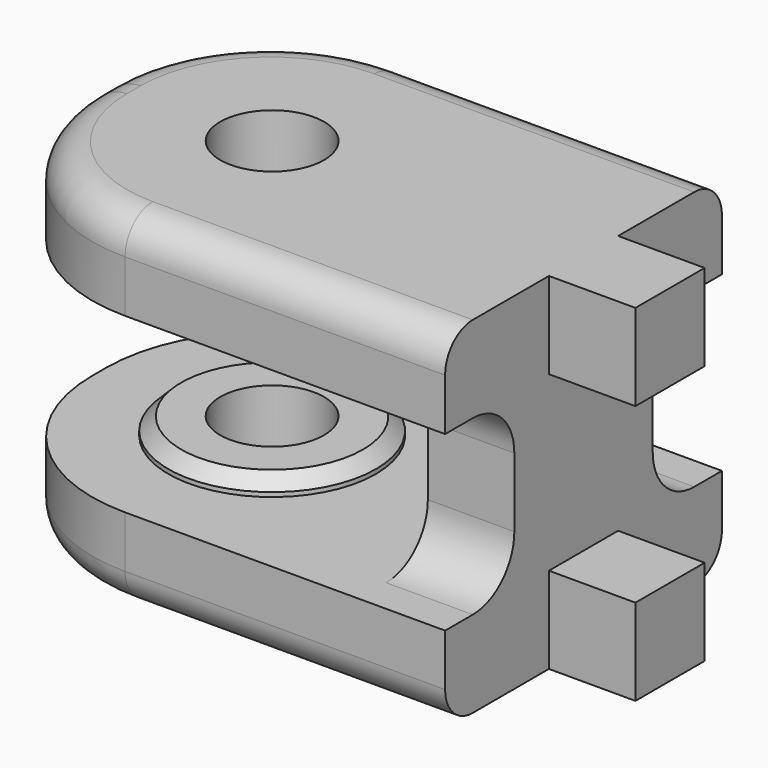
from build123d import *

# Parameters (mm, degrees)
BOX007_W          = 11
BOX007_H          = 7
BOX007_DEPTH      = 10
FILLET_R          = 3
ARRAY_COUNT       = 2
ARRAY_ANGLE       = 180
CYLINDER004_R     = 3
CYLINDER004_DEPTH = 30
CYLINDER005_R     = 6
CYLINDER005_DEPTH = 4
BOX005_W          = 23
BOX005_H          = 20
BOX005_DEPTH      = 5
BOX003_W          = 10
BOX003_H          = 5
BOX003_DEPTH      = 5
BOX004_W          = 10
BOX004_H          = 5
BOX004_DEPTH      = 5
BOX_W             = 5
BOX_H             = 20
BOX_DEPTH         = 20
BOX006_W          = 23
BOX006_H          = 20
BOX006_DEPTH      = 5
CYLINDER006_R     = 6
CYLINDER006_DEPTH = 4
CHAMFER_SIZE      = 0.75
CHAMFER001_SIZE   = 0.75
FILLET001_R       = 9.5
FILLET002_R       = 2


with BuildPart() as array:
    # Box007 → Box007 (new body)
    with BuildSketch(Plane(origin=(10, 5, -5), x_dir=(1, 0, 0), z_dir=(0, 0, 1))):
        with Locations((5.5, 3.5)):
            Rectangle(BOX007_W, BOX007_H)
    extrude(amount=BOX007_DEPTH)


with BuildPart() as array_1:
    # BaseFeature placement: moved
    add(array.part.moved(Location((-10, -5, 5))))

    # Fillet
    fillet_edges = [array_1.edges().sort_by_distance(p)[0] for p in [
        (5.5, 0, 10),
        (5.5, 0, 0),
    ]]
    fillet(fillet_edges, radius=FILLET_R)


with BuildPart() as array_2:
    # Body placement: moved
    add(array_1.part.moved(Location((-5, 5, 0))))

    # Array: Array ×2 about axis
    array_axis = Axis((0, 0, 0), (0, 0, 1))


with BuildPart() as array_3:
    add(array_2.part)
    for i in range(1, ARRAY_COUNT):
        add(array_2.part.rotate(array_axis, i * ARRAY_ANGLE / (ARRAY_COUNT - 1)))


with BuildPart() as array_4:
    # Array placement: moved
    add(array_3.part.moved(Location((14, 0, -5))))


with BuildPart() as cilindro004:
    # Cylinder004 → Cylinder004 (new body)
    with BuildSketch(Plane.XY.offset(-15)):
        Circle(CYLINDER004_R)
    extrude(amount=CYLINDER004_DEPTH)


with BuildPart() as obj1:
    # Cylinder005 → Cylinder005 (new body)
    with BuildSketch(Plane.XY.offset(-8)):
        Circle(CYLINDER005_R)
    extrude(amount=CYLINDER005_DEPTH)


with BuildPart() as cubo:
    # Box005 → Box005 (new body)
    with BuildSketch(Plane(origin=(-10, -10, -10), x_dir=(1, 0, 0), z_dir=(0, 0, 1))):
        with Locations((11.5, 10)):
            Rectangle(BOX005_W, BOX005_H)
    extrude(amount=BOX005_DEPTH)


with BuildPart() as cubo002:
    # Box003 → Box003 (new body)
    with BuildSketch(Plane(origin=(13, -2.5, 5), x_dir=(1, 0, 0), z_dir=(0, 0, 1))):
        with Locations((5, 2.5)):
            Rectangle(BOX003_W, BOX003_H)
    extrude(amount=BOX003_DEPTH)


with BuildPart() as cubo003:
    # Box004 → Box004 (new body)
    with BuildSketch(Plane(origin=(13, -2.5, -10), x_dir=(1, 0, 0), z_dir=(0, 0, 1))):
        with Locations((5, 2.5)):
            Rectangle(BOX004_W, BOX004_H)
    extrude(amount=BOX004_DEPTH)


with BuildPart() as fusion002001:
    # Box → Box (new body)
    with BuildSketch(Plane(origin=(13, -10, -10), x_dir=(1, 0, 0), z_dir=(0, 0, 1))):
        with Locations((2.5, 10)):
            Rectangle(BOX_W, BOX_H)
    extrude(amount=BOX_DEPTH)

    # Fusion002: union Cubo002, Cubo003
    add(cubo002.part)
    add(cubo003.part)


with BuildPart() as fusion002002001:
    # Box006 → Box006 (new body)
    with BuildSketch(Plane(origin=(-10, -10, 5), x_dir=(1, 0, 0), z_dir=(0, 0, 1))):
        with Locations((11.5, 10)):
            Rectangle(BOX006_W, BOX006_H)
    extrude(amount=BOX006_DEPTH)

    # Fusion002002: union Cubo, Fusion002001
    add(cubo.part)
    add(fusion002001.part)


with BuildPart() as body001:
    # Cylinder006 → Cylinder006 (new body)
    with BuildSketch(Plane.XY.offset(4)):
        Circle(CYLINDER006_R)
    extrude(amount=CYLINDER006_DEPTH)

    # Fusion002002002: union obj1, Fusion002002001
    add(obj1.part)
    add(fusion002002001.part)

    # Cut001: cut Cilindro004
    add(cilindro004.part, mode=Mode.SUBTRACT)

    # Cut002: cut Array
    add(array_4.part, mode=Mode.SUBTRACT)

    # Chamfer
    chamfer_edges = [body001.edges().sort_by_distance(p)[0] for p in [
        (-6, 0, -4),
    ]]
    chamfer(chamfer_edges, length=CHAMFER_SIZE)

    # Chamfer001
    chamfer001_edges = [body001.edges().sort_by_distance(p)[0] for p in [
        (-6, 0, 4),
    ]]
    chamfer(chamfer001_edges, length=CHAMFER001_SIZE)

    # Fillet001
    fillet001_edges = [body001.edges().sort_by_distance(p)[0] for p in [
        (-10, 10, 7.5),
        (-10, -10, 7.5),
        (-10, -10, -7.5),
        (-10, 10, -7.5),
    ]]
    fillet(fillet001_edges, radius=FILLET001_R)

    # Fillet002
    fillet002_edges = [body001.edges().sort_by_distance(p)[0] for p in [
        (8.75, 10, 10),
        (8.75, 10, -10),
    ]]
    fillet(fillet002_edges, radius=FILLET002_R)


solid = body001.part
